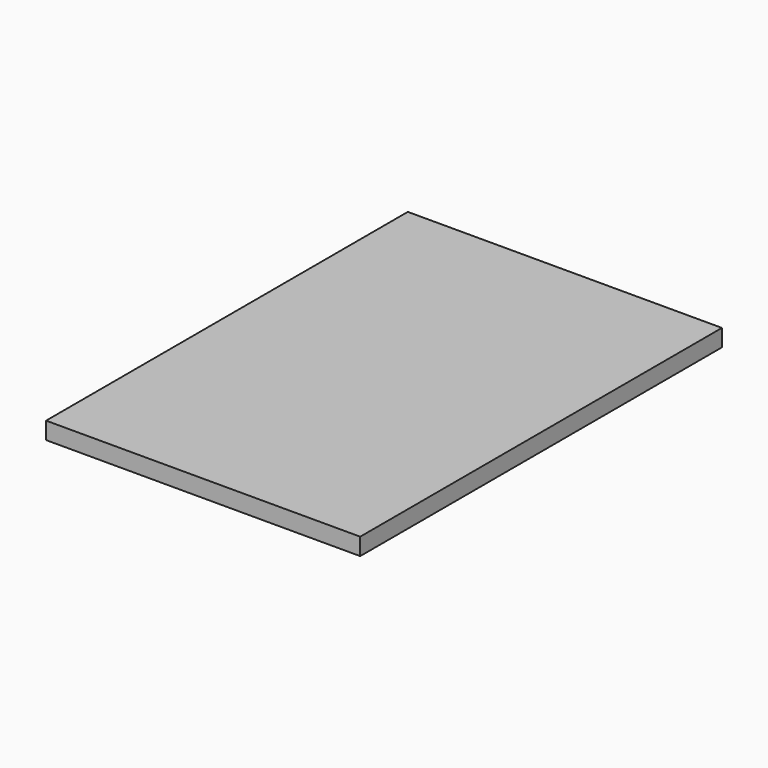
from build123d import *

# Parameters (mm, degrees)
F0_W           = 330
F0_H           = 475
F1_DEPTH       = 18
F3_D           = 3.5
F3_DEPTH       = 5
F3_CSINK_D     = 4.5
F3_CSINK_ANGLE = 90
F3_TIP         = 1.0515060833


with BuildPart() as f1:
    # F0 (on Top) → F1 (new body)
    with BuildSketch(Plane.XY):
        with Locations((-334.5651096106, -161.8172768305)):
            Rectangle(F0_W, F0_H)
    extrude(amount=F1_DEPTH)

    # F3
    with Locations(Plane(origin=(0, 0, 0), x_dir=(1, 0, 0), z_dir=(0, 0, -1))):
        with Locations((-334.5651096106, 387.3172768305), (-334.5651096106, 387.3172768305)):
            CounterSinkHole(F3_D / 2, F3_CSINK_D / 2, depth=F3_DEPTH, counter_sink_angle=F3_CSINK_ANGLE)
            with Locations((0, 0, -(F3_DEPTH + F3_TIP / 2))):  # 118° drill point
                Cone(0, F3_D / 2, F3_TIP, mode=Mode.SUBTRACT)


solid = f1.part
